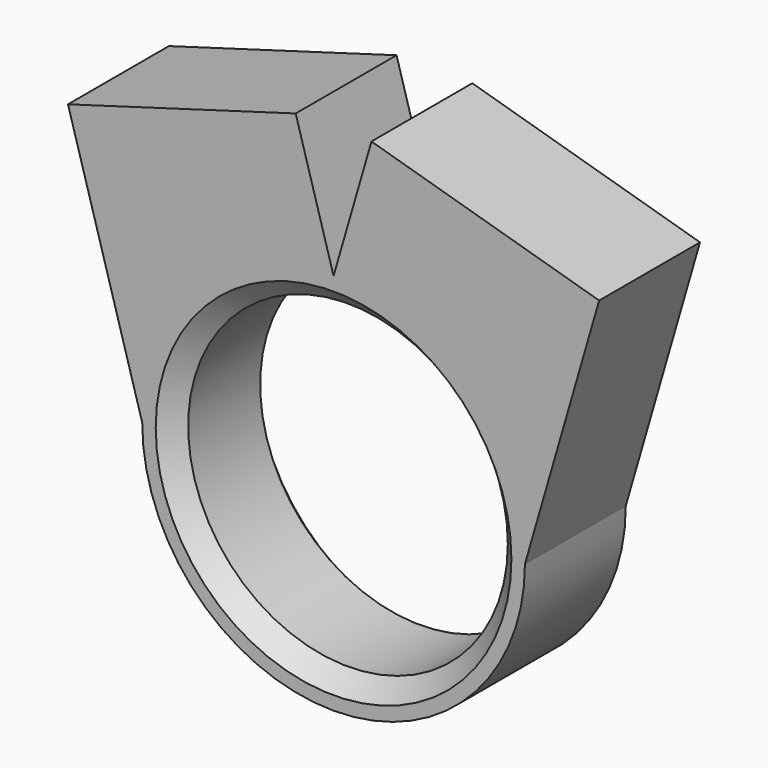
from build123d import *

# Parameters (mm, degrees)
F0_R     = 8.875
F1_DEPTH = 7
F2_SIZE  = 1


with BuildPart() as f1:
    # F0 (on Front) → F1 (new body)
    with BuildSketch(Plane.XZ):
        with BuildLine():
            ThreePointArc((0, 10.625), (7.51301, 7.51301), (10.625, 0))
            Line((10.625, 0), (14.745765, 14.220767))
            Line((14.745765, 14.220767), (2.103486, 17.884132))
            Line((2.103486, 17.884132), (0, 10.625))
        make_face()
        with BuildLine():
            ThreePointArc((-10.625, 0), (-7.51301, 7.51301), (0, 10.625))
            Line((0, 10.625), (-2.103486, 17.884132))
            Line((-2.103486, 17.884132), (-14.745765, 14.220767))
            Line((-14.745765, 14.220767), (-10.625, 0))
        make_face()
        with BuildLine():
            ThreePointArc((-10.625, 0), (0, -10.625), (10.625, 0))
            ThreePointArc((10.625, 0), (7.51301, 7.51301), (0, 10.625))
            ThreePointArc((0, 10.625), (-7.51301, 7.51301), (-10.625, 0))
        make_face()
        Circle(F0_R, mode=Mode.SUBTRACT)
    extrude(amount=F1_DEPTH)

    # F2
    f2_edges = [f1.edges().sort_by_distance(p)[0] for p in [
        (-8.875, 0, 0),
        (-8.875, -7, 0),
    ]]
    chamfer(f2_edges, length=F2_SIZE)


solid = f1.part
